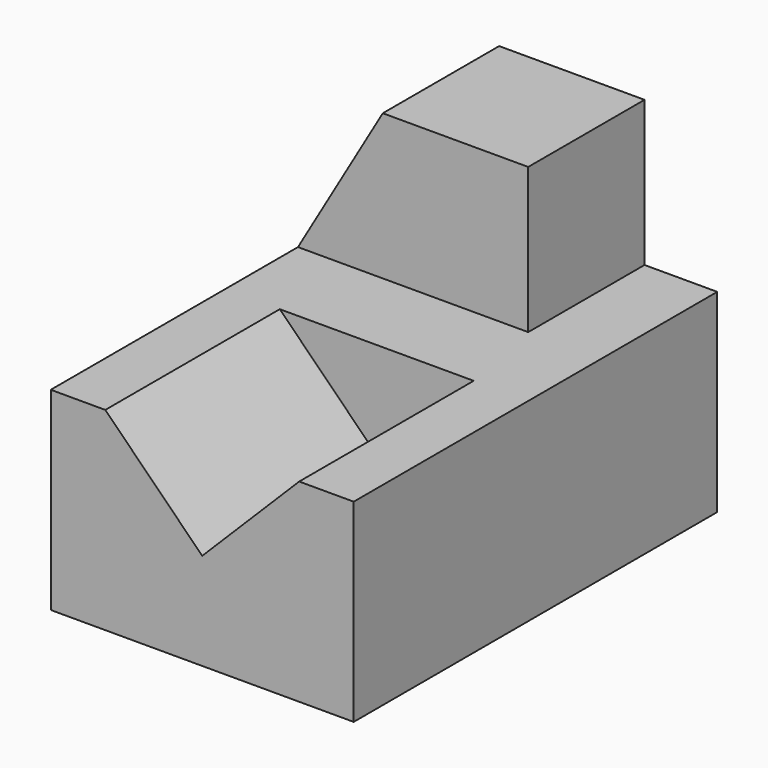
from build123d import *

# Parameters (mm, degrees)
SKETCH_W        = 50
SKETCH_H        = 75
PAD_DEPTH       = 32
POCKET_DEPTH    = 36
SKETCH002_W     = 38
SKETCH002_H     = 24
PAD001_DEPTH    = 24
POCKET001_DEPTH = 24.001


with BuildPart() as part:
    # Sketch → Pad (new body)
    with BuildSketch(Plane.XY):
        Rectangle(SKETCH_W, SKETCH_H)
    extrude(amount=PAD_DEPTH)

    # Sketch001 → Pocket (cut)
    with BuildSketch(Plane.XZ.offset(37.5)):
        Polygon((-16, 32), (16, 32), (0, 16), align=None)
    extrude(amount=-POCKET_DEPTH, mode=Mode.SUBTRACT)

    # Sketch002 → Pad001 (new body)
    with BuildSketch(Plane.XY.offset(32)):
        with Locations((-6, 25.5)):
            Rectangle(SKETCH002_W, SKETCH002_H)
    extrude(amount=PAD001_DEPTH)

    # Sketch003 → Pocket001 (cut, through all)
    with BuildSketch(Plane.XZ.offset(-13.5)):
        Polygon((-25, 56), (-11, 56), (-25, 32), align=None)
    extrude(amount=-POCKET001_DEPTH, mode=Mode.SUBTRACT)


solid = part.part
